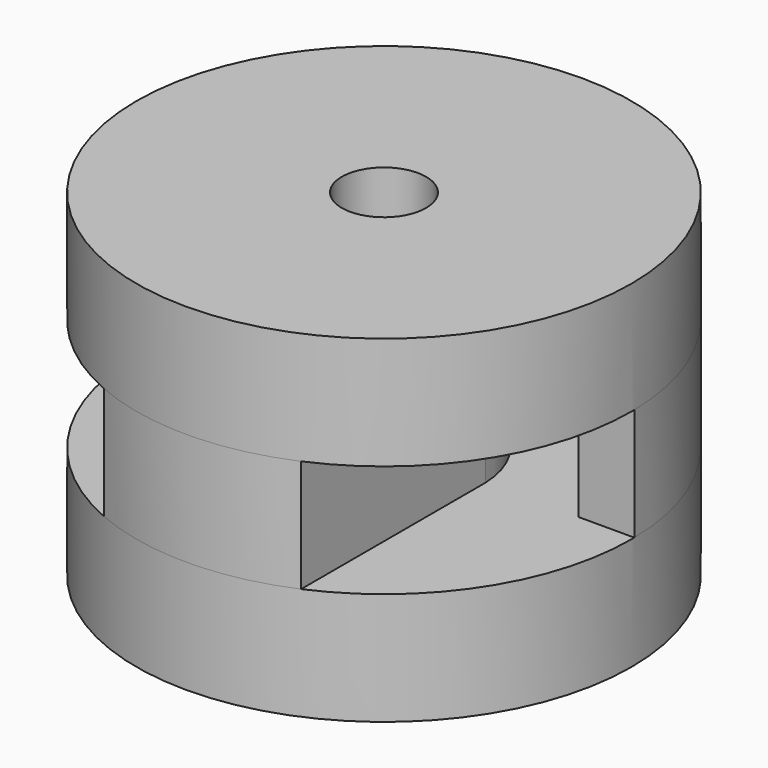
from build123d import *

# Parameters (mm, degrees)
F0_R     = 11
F1_DEPTH = 5
F3_DEPTH = 5
F4_R     = 11
F5_DEPTH = 5
F6_R     = 1.875
F7_DEPTH = 25


with BuildPart() as f1:
    # F0 (on Top) → F1 (new body)
    with BuildSketch(Plane.XY):
        with Locations((-55.3302019835, -34.0237878263)):
            Circle(F0_R)
    extrude(amount=F1_DEPTH)

    # F2 (on face) → F3 (join)
    with BuildSketch(Plane.XY.offset(5)):
        with BuildLine():
            Line((-46.800726779, -33.8632795051), (-44.3313730877, -33.8632795051))
            ThreePointArc((-44.3313730877, -33.8632795051), (-55.3302019835, -23.0237878263), (-66.3290308792, -33.8632795051))
            Line((-66.3290308792, -33.8632795051), (-63.8596771879, -33.8632795051))
            ThreePointArc((-63.8596771879, -33.8632795051), (-55.3302019835, -25.9412589779), (-46.800726779, -33.8632795051))
        make_face()
        with BuildLine():
            ThreePointArc((-59.7163877129, -44.1114721367), (-55.3302019835, -45.0237878263), (-50.944016254, -44.1114721367))
            Line((-50.944016254, -44.1114721367), (-50.944016254, -34.1842961475))
            Line((-50.944016254, -34.1842961475), (-50.944016254, -33.8632795051))
            ThreePointArc((-50.944016254, -33.8632795051), (-55.3302019835, -29.6346662543), (-59.7163877129, -33.8632795051))
            Line((-59.7163877129, -33.8632795051), (-59.7163877129, -34.1842961475))
            Line((-59.7163877129, -34.1842961475), (-59.7163877129, -44.1114721367))
        make_face()
    extrude(amount=F3_DEPTH)

    # F4 (on face) → F5 (join)
    with BuildSketch(Plane.XY.offset(10)):
        with Locations((-55.3302019835, -34.0237878263)):
            Circle(F4_R)
    extrude(amount=F5_DEPTH)

    # F6 (on face) → F7 (cut)
    with BuildSketch(Plane.XY.offset(15)):
        with Locations((-55.3302019835, -34.0237878263)):
            Circle(F6_R)
    extrude(amount=-F7_DEPTH, mode=Mode.SUBTRACT)


solid = f1.part
